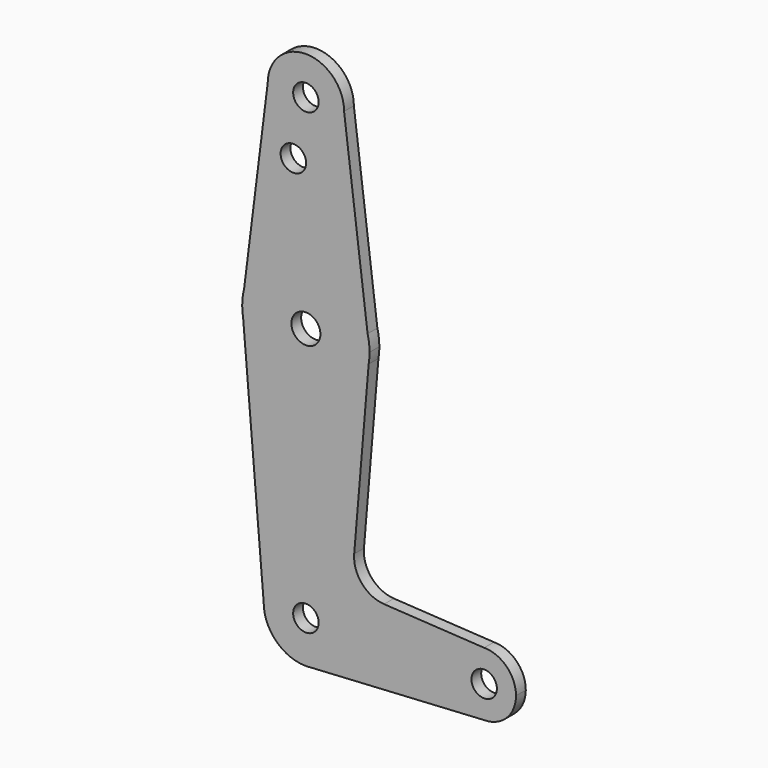
from build123d import *

# Parameters (mm, degrees)
F0_R     = 3.175
F0_R_2   = 3.6159437641
F1_DEPTH = 3.048


with BuildPart() as f1:
    # F0 (on Front) → F1 (new body)
    with BuildSketch(Plane.XZ):
        with BuildLine():
            ThreePointArc((-9.525, 114.3), (0, 104.775), (9.525, 114.3))
            ThreePointArc((9.525, 114.3), (0, 123.825), (-9.525, 114.3))
        make_face()
        with Locations((0, 114.3)):
            Circle(F0_R, mode=Mode.SUBTRACT)
        with BuildLine():
            Line((15.3865384615, 67.4076923077), (9.525, 114.3))
            ThreePointArc((9.525, 114.3), (0, 104.775), (-9.525, 114.3))
            Line((-9.525, 114.3), (-15.3865384615, 67.4076923077))
            ThreePointArc((-15.3865384615, 67.4076923077), (0, 79.375), (15.3865384615, 67.4076923077))
        make_face()
        with Locations((-3.1260617511, 99.8911798788)):
            Circle(F0_R, mode=Mode.SUBTRACT)
        with BuildLine():
            Line((15.875, 63.5), (15.3865384615, 67.4076923077))
            ThreePointArc((15.3865384615, 67.4076923077), (0, 79.375), (-15.3865384615, 67.4076923077))
            Line((-15.3865384615, 67.4076923077), (-15.875, 63.5))
            Line((-15.875, 63.5), (-15.6509715667, 60.8424232807))
            ThreePointArc((-15.6509715667, 60.8424232807), (0, 47.625), (15.6509715667, 60.8424232807))
            Line((15.6509715667, 60.8424232807), (15.875, 63.5))
        make_face()
        with Locations((0, 63.5)):
            Circle(F0_R_2, mode=Mode.SUBTRACT)
        with BuildLine():
            ThreePointArc((15.875, 63.5), (15.7524112928, 65.4690514116), (15.3865384615, 67.4076923077))
            Line((15.3865384615, 67.4076923077), (15.875, 63.5))
        make_face()
        with BuildLine():
            Line((-15.875, 63.5), (-15.3865384615, 67.4076923077))
            ThreePointArc((-15.3865384615, 67.4076923077), (-15.7524112928, 65.4690514116), (-15.875, 63.5))
        make_face()
        with BuildLine():
            ThreePointArc((15.6509715667, 60.8424232807), (15.8188937448, 62.1664987103), (15.875, 63.5))
            Line((15.875, 63.5), (15.6509715667, 60.8424232807))
        make_face()
        with BuildLine():
            Line((-15.6509715667, 60.8424232807), (-15.875, 63.5))
            ThreePointArc((-15.875, 63.5), (-15.8188937448, 62.1664987103), (-15.6509715667, 60.8424232807))
        make_face()
        with BuildLine():
            Line((12.0396887444, 18.0029452157), (15.6509715667, 60.8424232807))
            ThreePointArc((15.6509715667, 60.8424232807), (0, 47.625), (-15.6509715667, 60.8424232807))
            Line((-15.6509715667, 60.8424232807), (-10.5220762583, 0))
            ThreePointArc((-10.5220762583, 0), (0, 10.5220762583), (10.5220762583, 0))
            ThreePointArc((10.5220762583, 0), (7.8595738312, -6.99579788), (1.2195038808, -10.4511673545))
            Line((1.2195038808, -10.4511673545), (44.45, -7.9375))
            ThreePointArc((44.45, -7.9375), (36.5125, 0), (44.45, 7.9375))
            Line((44.45, 7.9375), (19.4970935517, 9.3985203982))
            ThreePointArc((19.4970935517, 9.3985203982), (13.9539931587, 12.1282046514), (12.0396887444, 18.0029452157))
        make_face()
        with BuildLine():
            ThreePointArc((10.5220762583, 0), (0, 10.5220762583), (-10.5220762583, 0))
            ThreePointArc((-10.5220762583, 0), (-7.4402314744, -7.4402314744), (0, -10.5220762583))
            Line((0, -10.5220762583), (1.2195038808, -10.4511673545))
            ThreePointArc((1.2195038808, -10.4511673545), (7.8595738312, -6.99579788), (10.5220762583, 0))
        make_face()
        Circle(F0_R, mode=Mode.SUBTRACT)
        with BuildLine():
            Line((1.2195038808, -10.4511673545), (0, -10.5220762583))
            ThreePointArc((0, -10.5220762583), (0.6107818326, -10.504334074), (1.2195038808, -10.4511673545))
        make_face()
        with BuildLine():
            ThreePointArc((52.3875, 0), (50.0626600757, 5.6126600757), (44.45, 7.9375))
            ThreePointArc((44.45, 7.9375), (36.5125, 0), (44.45, -7.9375))
            ThreePointArc((44.45, -7.9375), (50.0626600757, -5.6126600757), (52.3875, 0))
        make_face()
        with Locations((44.45, 0)):
            Circle(F0_R, mode=Mode.SUBTRACT)
    extrude(amount=F1_DEPTH)


solid = f1.part
